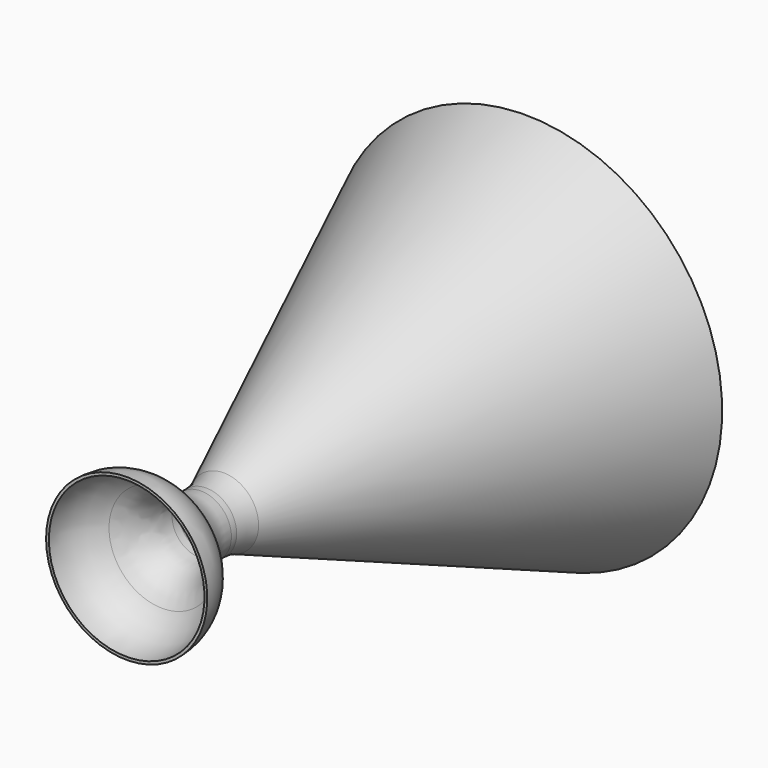
from build123d import *

# Parameters (mm, degrees)
F2_R = 10


with BuildPart() as f1:
    # F0 (on Top) → F1 (revolve)
    with BuildSketch(Plane.XY):
        with BuildLine():
            Line((-5.5, 20), (-5.5, 10))
            ThreePointArc((-5.5, 10), (-11.951506, 6.74352), (-14.549876, 0))
            Line((-14.549876, 0), (-14.049876, 0))
            ThreePointArc((-14.049876, 0), (-11.427303, 6.573629), (-5, 9.536777))
            Line((-5, 9.536777), (-5, 20))
            Line((-5, 20), (-35, 90))
            Line((-35, 90), (-35.5, 90))
            Line((-35.5, 90), (-5.5, 20))
        make_face()
    revolve(axis=Axis((0, 34.304306, 0), (0, -1, 0)))

    # F2
    f2_edges = [f1.edges().sort_by_distance(p)[0] for p in [
        (5.5, 10, 0),
        (5.5, 20, 0),
        (5, 9.536777, 0),
        (5, 20, 0),
    ]]
    fillet(f2_edges, radius=F2_R)


solid = f1.part
